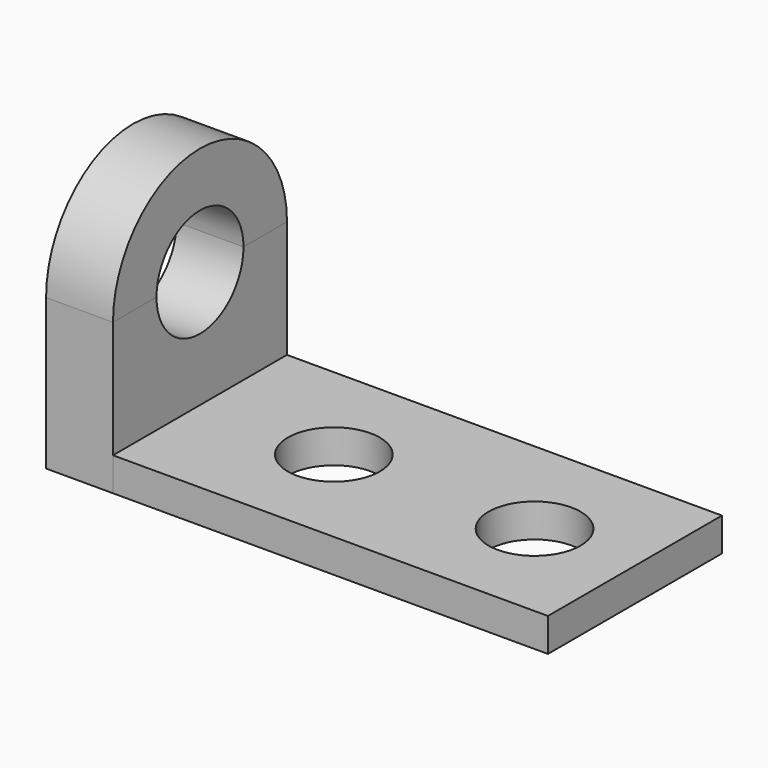
from build123d import *

# Parameters (mm, degrees)
F0_W      = 190.5
F0_H      = 12.7
F1_DEPTH  = 82.55
F2_W      = 82.55
F2_H      = 101.6
F3_DEPTH  = 25.4
F4_W      = 82.55
F4_H      = 44.45
F5_DEPTH  = 25.4
F7_DEPTH  = 25.4
F9_DEPTH  = 25.4
F10_DEPTH = 25.4
F11_R     = 17.4625
F12_DEPTH = 25.4


with BuildPart() as f1:
    # F0 (on Front) → F1 (new body)
    with BuildSketch(Plane.XZ):
        with Locations((95.25, 6.35)):
            Rectangle(F0_W, F0_H)
    extrude(amount=F1_DEPTH)

    # F11 (on face) → F12 (cut)
    with BuildSketch(Plane.XY.offset(12.7)):
        with Locations((152.4, -41.275)):
            Circle(F11_R)
        with Locations((76.2, -41.275)):
            Circle(F11_R)
    extrude(amount=-F12_DEPTH, mode=Mode.SUBTRACT)


with BuildPart() as f3:
    # F2 (on Right) → F3 (new body)
    with BuildSketch(Plane.YZ):
        with Locations((-41.275, 50.8)):
            Rectangle(F2_W, F2_H)
    extrude(amount=F3_DEPTH)

    # F4 (on face) → F5 (cut)
    with BuildSketch(Plane.YZ.offset(25.4)):
        with Locations((-41.275, 79.375)):
            Rectangle(F4_W, F4_H)
    extrude(amount=-F5_DEPTH, mode=Mode.SUBTRACT)

    # F8 (on face) → F10 (cut)
    with BuildSketch(Plane.YZ.offset(25.4)):
        with BuildLine():
            ThreePointArc((-61.9125, 57.15), (-41.275, 36.5125), (-20.6375, 57.15))
            Line((-20.6375, 57.15), (-61.9125, 57.15))
        make_face()
    extrude(amount=-F10_DEPTH, mode=Mode.SUBTRACT)


with BuildPart() as f7:
    # F6 (on face) → F7 (new body)
    with BuildSketch(Plane.YZ.offset(25.4)):
        with BuildLine():
            Line((-82.55, 57.15), (0, 57.15))
            ThreePointArc((0, 57.15), (-41.275, 98.425), (-82.55, 57.15))
        make_face()
    extrude(amount=-F7_DEPTH)

    # F8 (on face) → F9 (cut)
    with BuildSketch(Plane.YZ.offset(25.4)):
        with BuildLine():
            Line((-61.9125, 57.15), (-20.6375, 57.15))
            ThreePointArc((-20.6375, 57.15), (-41.275, 77.7875), (-61.9125, 57.15))
        make_face()
    extrude(amount=-F9_DEPTH, mode=Mode.SUBTRACT)


solid = Compound([f1.part, f3.part, f7.part])
